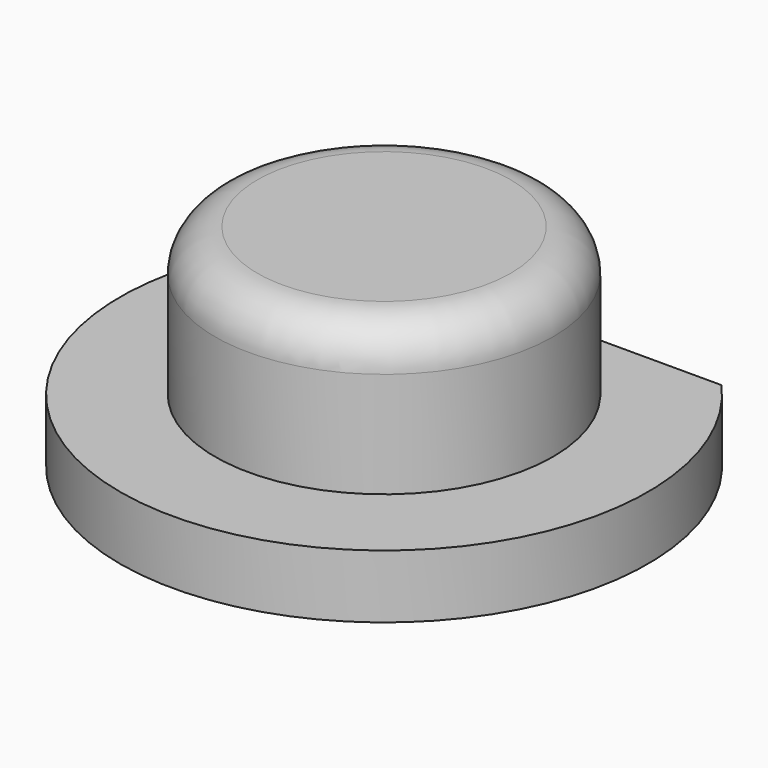
from build123d import *

# Parameters (mm, degrees)
BOX117_W          = 10
BOX117_H          = 10
BOX117_DEPTH      = 10
CYLINDER013_R     = 4
CYLINDER013_DEPTH = 5
FILLET001_R       = 1
CYLINDER014_R     = 6.25
CYLINDER014_DEPTH = 1.5


with BuildPart() as cube107:
    # Box117 → Box117 (new body)
    with BuildSketch(Plane(origin=(97.4, 28.4, 0), x_dir=(1, 0, 0), z_dir=(0, 0, 1))):
        with Locations((5, 5)):
            Rectangle(BOX117_W, BOX117_H)
    extrude(amount=BOX117_DEPTH)


with BuildPart() as obj1:
    # Cylinder013 → Cylinder013 (new body)
    with BuildSketch(Plane(origin=(120.31, 24.21, 6.3), x_dir=(1, 0, 0), z_dir=(0, 0, 1))):
        Circle(CYLINDER013_R)
    extrude(amount=CYLINDER013_DEPTH)

    # Fillet001
    fillet001_edges = [obj1.edges().sort_by_distance(p)[0] for p in [
        (116.31, 24.21, 11.3),
    ]]
    fillet(fillet001_edges, radius=FILLET001_R)


with BuildPart() as cut073:
    # Cylinder014 → Cylinder014 (new body)
    with BuildSketch(Plane(origin=(120.31, 24.21, 6.3), x_dir=(1, 0, 0), z_dir=(0, 0, 1))):
        Circle(CYLINDER014_R)
    extrude(amount=CYLINDER014_DEPTH)

    # Fusion013: union obj1
    add(obj1.part)


with BuildPart() as cut073_1:
    # Fusion013 placement: moved
    add(cut073.part.moved(Location((-18, 0, 0))))

    # Cut073: cut Cube107
    add(cube107.part, mode=Mode.SUBTRACT)


solid = cut073_1.part
